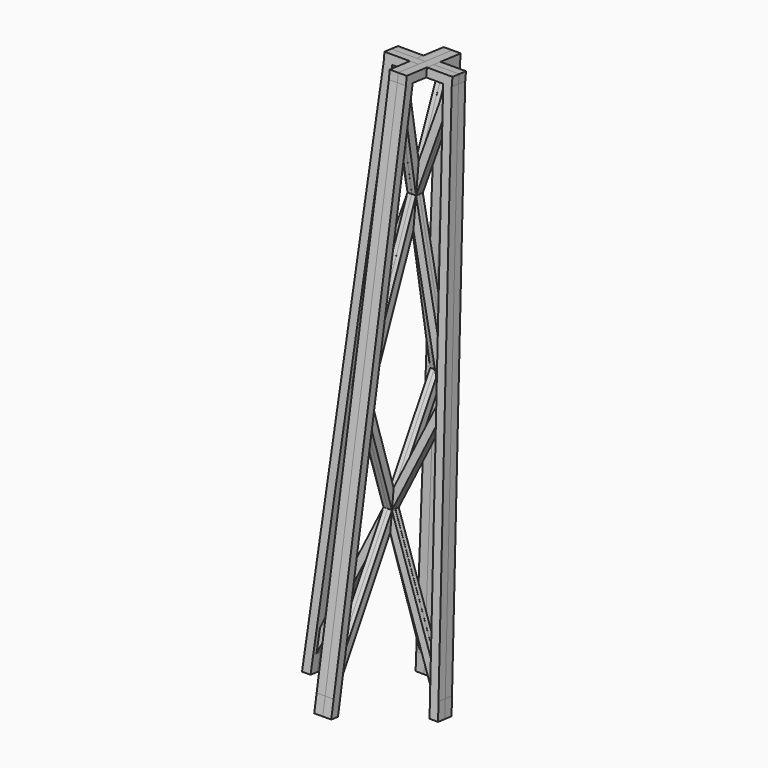
from build123d import *

# Parameters (mm, degrees)
F5_DEPTH = 3.175
F6_DEPTH = 1.5875
F7_COUNT = 4


with BuildPart() as f5:
    # F4 (on face) → F5 (new body)
    with BuildSketch(Plane(origin=(0, -25.0756066366, 2.8520800089), x_dir=(1, 0, 0), z_dir=(0, -0.9935937841, 0.1130105847))):
        Polygon((-24.9903225806, 6.35), (-25.4, 0), (-22.2183991613, 0), (-21.8087217419, 6.35), align=None)
        Polygon((24.9903225806, 6.35), (21.8087217419, 6.35), (22.2183991613, 0), (25.4, 0), align=None)
        Polygon((-19.05, 98.425), (-24.9903225806, 6.35), (-21.2674673958, 14.7394423645), (-16.272247906, 92.1653444565), align=None)
        Polygon((-12.7, 196.85), (-19.05, 98.425), (-14.9592417757, 112.5169394767), (-10.0969813933, 187.8819754034), align=None)
        Polygon((-21.2674673958, 14.7394423645), (-24.9903225806, 6.35), (-21.8087217419, 6.35), align=None)
        Polygon((-15.881587144, 98.2205862674), (-19.05, 98.425), (-16.272247906, 92.1653444565), align=None)
        Polygon((-14.9592417757, 112.5169394767), (-19.05, 98.425), (-15.881587144, 98.2205862674), align=None)
        Polygon((-9.521856904, 196.85), (-12.7, 196.85), (-10.0969813933, 187.8819754034), (-9.5183991613, 196.85), align=None)
        Polygon((19.05, 98.425), (16.272247906, 92.1653444565), (21.2690766494, 14.7144989347), (24.9903225806, 6.35), align=None)
        Polygon((19.05, 98.425), (12.7, 196.85), (10.0977454054, 187.8701332154), (14.9591002879, 112.5191325376), align=None)
        Polygon((21.2690766494, 14.7144989347), (21.8087217419, 6.35), (24.9903225806, 6.35), align=None)
        Polygon((19.05, 98.425), (15.8683991613, 98.425), (16.272247906, 92.1653444565), align=None)
        Polygon((14.9591002879, 112.5191325376), (15.8683991613, 98.425), (19.05, 98.425), align=None)
        Polygon((-12.7, 200.025), (-12.7, 196.85), (-9.521856904, 196.85), (-9.5183991613, 196.85), (9.5183991613, 196.85), (9.521856904, 196.85), (12.7, 196.85), (12.7, 200.025), align=None)
        Polygon((10.0977454054, 187.8701332154), (12.7, 196.85), (9.521856904, 196.85), (9.5190278984, 196.8402545752), align=None)
    extrude(amount=-F5_DEPTH)

    # F4 (on face) → F6 (join)
    with BuildSketch(Plane(origin=(0, -25.0756066366, 2.8520800089), x_dir=(1, 0, 0), z_dir=(0, -0.9935937841, 0.1130105847))):
        Polygon((-9.521856904, 196.85), (-12.7, 196.85), (-10.0969813933, 187.8819754034), (-9.5183991613, 196.85), align=None)
        Polygon((-9.5183991613, 196.85), (-10.0969813933, 187.8819754034), (-1.5897439064, 158.5724980007), (0.0011527775, 164.052856055), align=None)
        Polygon((9.5190278984, 196.8402545752), (0.0011527775, 164.052856055), (1.5997609433, 158.5452667836), (10.0977454054, 187.8701332154), align=None)
        Polygon((10.0977454054, 187.8701332154), (12.7, 196.85), (9.521856904, 196.85), (9.5190278984, 196.8402545752), align=None)
        Polygon((0.0011527775, 164.052856055), (-1.5897439064, 158.5724980007), (0.0102436412, 153.0601564278), (1.5997609433, 158.5452667836), align=None)
        Polygon((-1.5897439064, 158.5724980007), (-14.9592417757, 112.5169394767), (-15.881587144, 98.2205862674), (0.0102436412, 153.0601564278), align=None)
        Polygon((-14.9592417757, 112.5169394767), (-19.05, 98.425), (-15.881587144, 98.2205862674), align=None)
        Polygon((1.5997609433, 158.5452667836), (0.0102436412, 153.0601564278), (15.8683991613, 98.425), (14.9591002879, 112.5191325376), align=None)
        Polygon((14.9591002879, 112.5191325376), (15.8683991613, 98.425), (19.05, 98.425), align=None)
        Polygon((15.8683991613, 98.425), (-0.0318034773, 62.5939437277), (1.5610214451, 59.0136422338), (16.272247906, 92.1653444565), align=None)
        Polygon((19.05, 98.425), (15.8683991613, 98.425), (16.272247906, 92.1653444565), align=None)
        Polygon((-0.0318034773, 62.5939437277), (-15.881587144, 98.2205862674), (-16.272247906, 92.1653444565), (-1.5908004194, 59.0807490579), align=None)
        Polygon((-15.881587144, 98.2205862674), (-19.05, 98.425), (-16.272247906, 92.1653444565), align=None)
        Polygon((-0.0318034773, 62.5939437277), (-1.5908004194, 59.0807490579), (0, 55.4958853527), (1.5610214451, 59.0136422338), align=None)
        Polygon((1.5610214451, 59.0136422338), (0, 55.4958853527), (21.8087217419, 6.35), (21.2690766494, 14.7144989347), align=None)
        Polygon((-1.5908004194, 59.0807490579), (-21.2674673958, 14.7394423645), (-21.8087217419, 6.35), (0, 55.4958853527), align=None)
        Polygon((21.2690766494, 14.7144989347), (21.8087217419, 6.35), (24.9903225806, 6.35), align=None)
        Polygon((-21.2674673958, 14.7394423645), (-24.9903225806, 6.35), (-21.8087217419, 6.35), align=None)
    extrude(amount=F6_DEPTH)


with BuildPart() as f7_1:
    # F7: instance of F5
    add(f5.part.rotate(Axis((0, -12.7, 111.6589307785), (0, 0.1130105847, 0.9935937841)), 1 * 360 / F7_COUNT))


with BuildPart() as f7_2:
    # F7: instance of F5
    add(f5.part.rotate(Axis((0, -12.7, 111.6589307785), (0, 0.1130105847, 0.9935937841)), 2 * 360 / F7_COUNT))


with BuildPart() as f7_3:
    # F7: instance of F5
    add(f5.part.rotate(Axis((0, -12.7, 111.6589307785), (0, 0.1130105847, 0.9935937841)), 3 * 360 / F7_COUNT))


solid = Compound([f5.part, f7_1.part, f7_2.part, f7_3.part])
